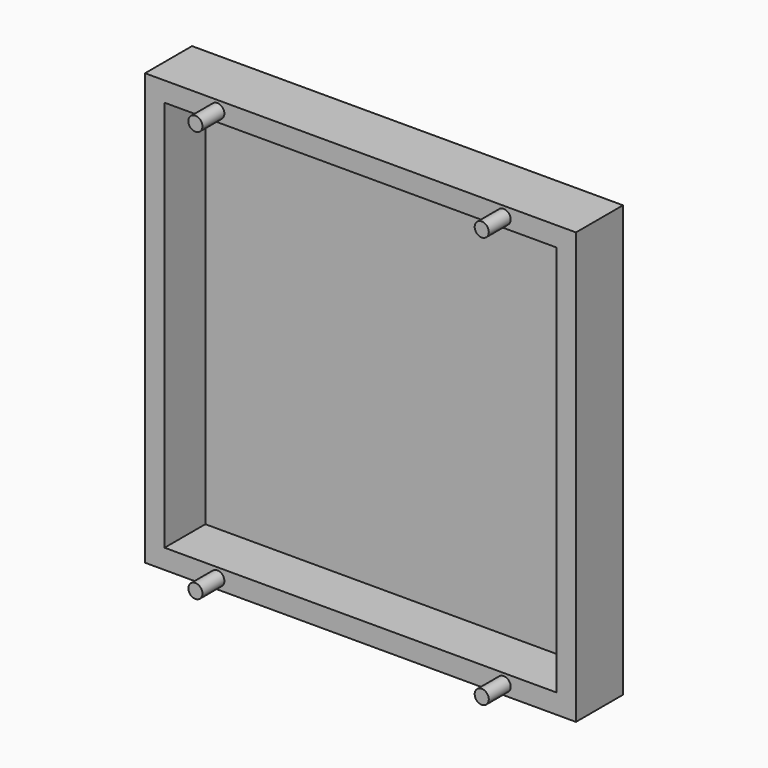
from build123d import *

# Parameters (mm, degrees)
F0_W     = 110
F0_H     = 110
F1_DEPTH = 15
F2_W     = 100
F2_H     = 100
F3_DEPTH = 13
F4_R     = 1.8
F5_DEPTH = 7


with BuildPart() as f1:
    # F0 (on Front) → F1 (new body)
    with BuildSketch(Plane.XZ):
        Rectangle(F0_W, F0_H)
    extrude(amount=F1_DEPTH)

    # F2 (on face) → F3 (cut)
    with BuildSketch(Plane.XZ.offset(15)):
        Rectangle(F2_W, F2_H)
    extrude(amount=-F3_DEPTH, mode=Mode.SUBTRACT)

    # F4 (on face) → F5 (join)
    with BuildSketch(Plane.XZ.offset(15)):
        with Locations((-36.54647, 52.5)):
            Circle(F4_R)
        with Locations((36.54647, 52.5)):
            Circle(F4_R)
        with Locations((-36.54647, -52.5)):
            Circle(F4_R)
        with Locations((36.54647, -52.5)):
            Circle(F4_R)
    extrude(amount=F5_DEPTH)


solid = f1.part
